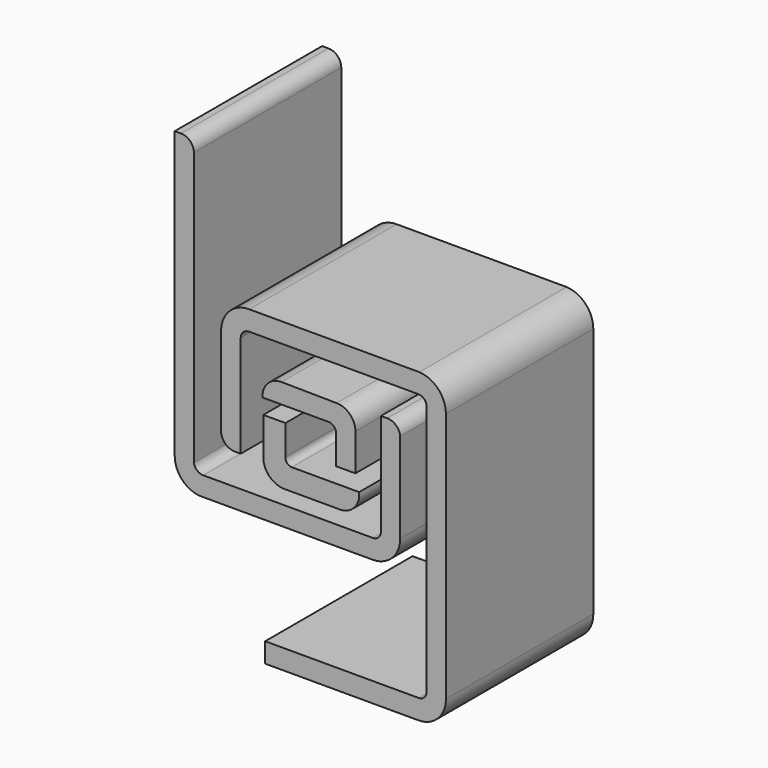
from build123d import *

# Parameters (mm, degrees)
F1_DEPTH = 25
F3_DEPTH = 25
F5_DEPTH = 25
F7_DEPTH = 25


with BuildPart() as f1:
    # F0 (on Front) → F1 (new body)
    with BuildSketch(Plane.XZ):
        with BuildLine():
            Line((-44.374894, 106.219342), (-45.223148, 106.219342))
            Line((-45.223148, 106.219342), (-45.223148, 67.432422))
            ThreePointArc((-45.223148, 67.432422), (-44.08526, 64.77273), (-41.3758, 63.759037))
            Line((-41.3758, 63.759037), (-18.34991, 63.759037))
            ThreePointArc((-18.34991, 63.759037), (-15.69932, 64.865937), (-14.623148, 67.529152))
            Line((-14.623148, 67.529152), (-14.623148, 79.755387))
            ThreePointArc((-14.623148, 79.755387), (-15.21043, 80.862265), (-16.382694, 81.304843))
            Line((-16.382694, 81.304843), (-17.235737, 81.304843))
            Line((-17.235737, 81.304843), (-17.235737, 67.529152))
            ThreePointArc((-17.235737, 67.529152), (-17.547058, 66.714206), (-18.34991, 66.372907))
            Line((-18.34991, 66.372907), (-41.343459, 66.372907))
            ThreePointArc((-41.343459, 66.372907), (-42.17022, 66.668215), (-42.622798, 67.420487))
            Line((-42.622798, 67.420487), (-42.622798, 104.504637))
            ThreePointArc((-42.622798, 104.504637), (-43.13829, 105.730407), (-44.374894, 106.219342))
        make_face()
    extrude(amount=F1_DEPTH)


with BuildPart() as f3:
    # F2 (on Front) → F3 (new body)
    with BuildSketch(Plane.XZ):
        with BuildLine():
            Line((-3.095761, -25.262056), (-6.099422, -25.262056))
            Line((-6.099422, -25.262056), (-6.091285, -30.673102))
            ThreePointArc((-6.091285, -30.673102), (-5.128592, -32.467959), (-3.222055, -33.184484))
            Line((-3.222055, -33.184484), (4.298016, -33.184484))
            ThreePointArc((4.298016, -33.184484), (6.256081, -32.306144), (6.902139, -30.259656))
            Line((6.902139, -30.259656), (-2.239483, -30.259656))
            ThreePointArc((-2.239483, -30.259656), (-2.884583, -29.969608), (-3.095761, -29.294563))
            Line((-3.095761, -29.294563), (-3.095761, -25.262056))
        make_face()
    extrude(amount=F3_DEPTH)


with BuildPart() as f5:
    # F4 (on Front) → F5 (new body)
    with BuildSketch(Plane.XZ):
        with BuildLine():
            ThreePointArc((-3.630316, 25.170783), (-5.502229, 24.385206), (-6.205507, 22.480845))
            Line((-6.205507, 22.480845), (2.653023, 22.480845))
            ThreePointArc((2.653023, 22.480845), (3.437856, 22.213455), (3.771504, 21.454417))
            Line((3.771504, 21.454417), (3.771504, 17.516584))
            Line((3.771504, 17.516584), (6.394493, 17.516584))
            Line((6.394493, 17.516584), (6.394493, 22.53389))
            ThreePointArc((6.394493, 22.53389), (5.644215, 24.337742), (3.835998, 25.077437))
            Line((3.835998, 25.077437), (-3.630316, 25.170783))
        make_face()
    extrude(amount=F5_DEPTH)


with BuildPart() as f7:
    # F6 (on Front) → F7 (new body)
    with BuildSketch(Plane.XZ):
        with BuildLine():
            Line((16.012872, -86.400307), (16.832371, -86.400307))
            Line((16.832371, -86.400307), (16.832371, -72.578216))
            ThreePointArc((16.832371, -72.578216), (17.172865, -71.768242), (17.98981, -71.44483))
            Line((17.98981, -71.44483), (40.981854, -71.44483))
            ThreePointArc((40.981854, -71.44483), (41.747161, -71.796209), (42.059617, -72.578216))
            Line((42.059617, -72.578216), (42.059617, -106.547218))
            ThreePointArc((42.059617, -106.547218), (41.778006, -107.369841), (40.981851, -107.719341))
            Line((40.981851, -107.719341), (20.149793, -107.719341))
            Line((20.149793, -107.719341), (20.149793, -110.402173))
            Line((20.149793, -110.402173), (40.963797, -110.402173))
            ThreePointArc((40.963797, -110.402173), (43.606525, -109.296152), (44.673677, -106.63749))
            Line((44.673677, -106.63749), (44.673677, -72.578216))
            ThreePointArc((44.673677, -72.578216), (43.627544, -69.954378), (41.063098, -68.77009))
            Line((41.063098, -68.77009), (17.98981, -68.77009))
            ThreePointArc((17.98981, -68.77009), (15.292434, -69.876791), (14.173677, -72.569188))
            Line((14.173677, -72.569188), (14.173677, -84.61135))
            ThreePointArc((14.173677, -84.61135), (14.730004, -85.879301), (16.012872, -86.400307))
        make_face()
    extrude(amount=F7_DEPTH)


with BuildPart() as f8_1:
    # F8: copy of F1
    add(f1.part.moved(Location((29, 0, -77))))


with BuildPart() as f9_1:
    # F9: copy of F3
    add(f3.part.moved(Location((0, 0, 24.5))))


with BuildPart() as f10_1:
    # F10: copy of F5
    add(f5.part.moved(Location((0, 0, -21.2))))


with BuildPart() as f11_1:
    # F11: copy of F7
    add(f7.part.moved(Location((-26, 0, 80))))


with BuildPart() as f15_1:
    # F15: copy of F8_1
    add(f8_1.part.moved(Location((-1.9, 0, 0))))


solid = Compound([f9_1.part, f10_1.part, f11_1.part, f15_1.part])
